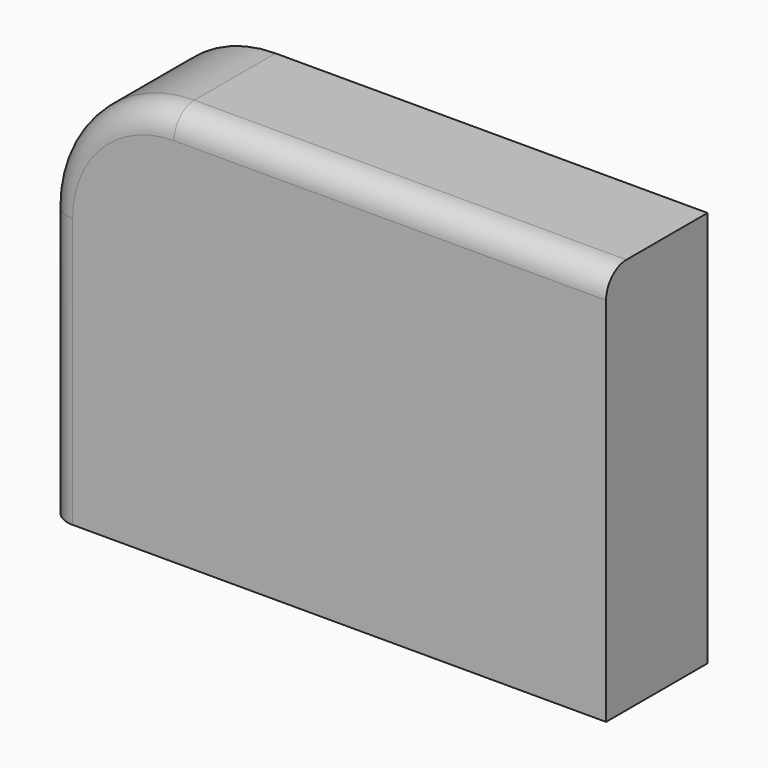
from build123d import *

# Parameters (mm, degrees)
F1_DEPTH = 25.4
F2_R     = 5.08


with BuildPart() as f1:
    # F0 (on Front) → F1 (new body)
    with BuildSketch(Plane.XZ):
        with BuildLine():
            Line((55.970259, 39.713088), (-30.570259, 39.713088))
            ThreePointArc((-30.570259, 39.713088), (-48.530771, 32.2736), (-55.970259, 14.313088))
            Line((-55.970259, 14.313088), (-55.970259, -39.713088))
            Line((-55.970259, -39.713088), (55.970259, -39.713088))
            Line((55.970259, -39.713088), (55.970259, 39.713088))
        make_face()
    extrude(amount=F1_DEPTH)

    # F2
    f2_edges = [f1.edges().sort_by_distance(p)[0] for p in [
        (-55.970259, -25.4, -12.7),
    ]]
    fillet(f2_edges, radius=F2_R)


solid = f1.part
